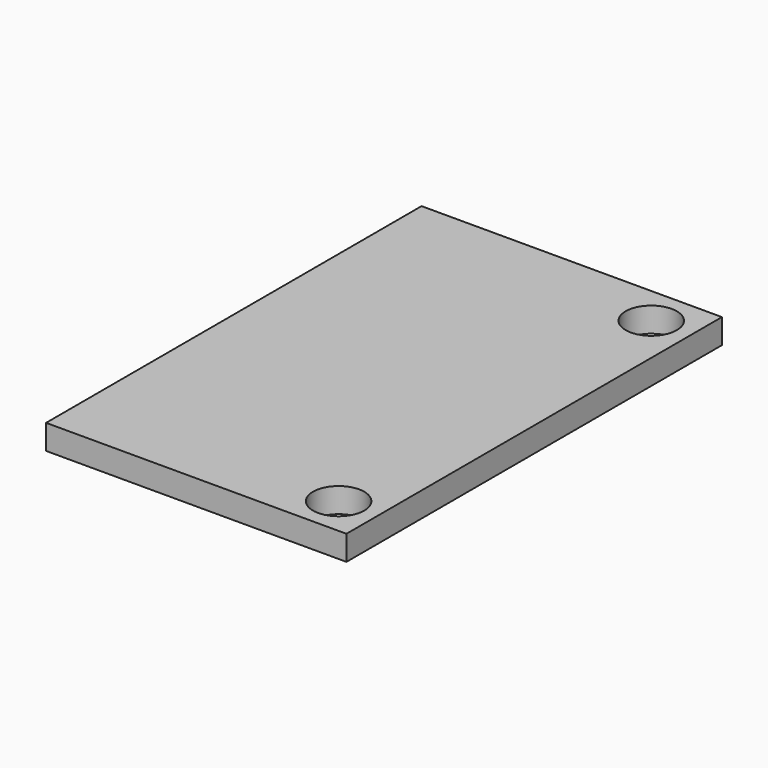
from build123d import *

# Parameters (mm, degrees)
SKETCH_W  = 17.6
SKETCH_H  = 27.5
SKETCH_R  = 1.5
PAD_DEPTH = 1.45


with BuildPart() as part:
    # Sketch → Pad (new body)
    with BuildSketch(Plane.XY):
        Rectangle(SKETCH_W, SKETCH_H)
        with Locations((6.5, 11.45)):
            Circle(SKETCH_R, mode=Mode.SUBTRACT)
        with Locations((6.5, -11.45)):
            Circle(SKETCH_R, mode=Mode.SUBTRACT)
    extrude(amount=PAD_DEPTH)


solid = part.part
